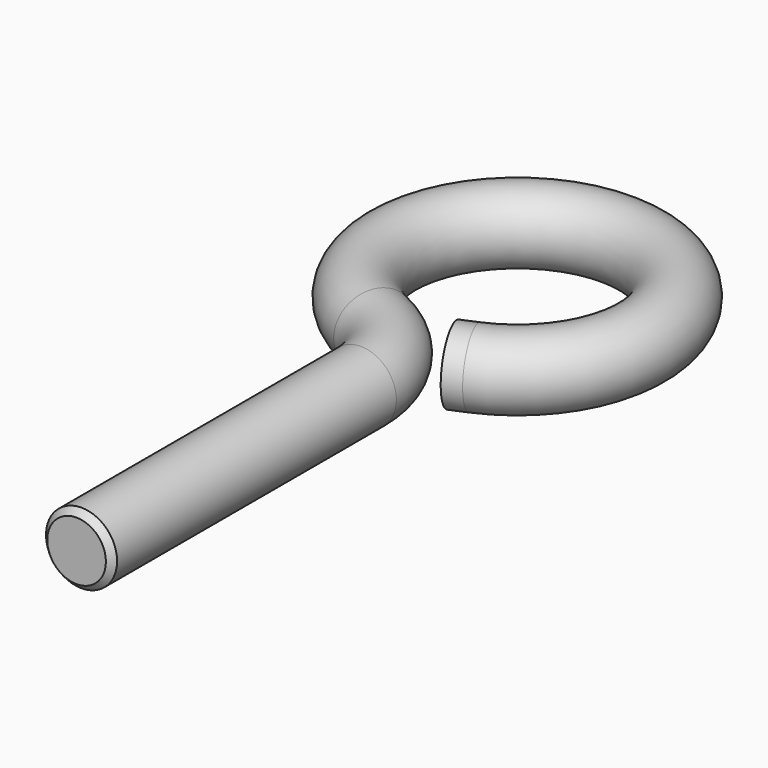
from build123d import *

# Parameters (mm, degrees)
F1_R    = 2
F3_SIZE = 0.35


with BuildPart() as f2:
    # F2: sweep along a path in F0
    with BuildLine(Plane.XY) as f2_path:
        Line((0, 0), (0, 20))
        ThreePointArc((0, 20), (-0.8040266345, 22.7610739599), (-2.9647058824, 24.6588235294))
        ThreePointArc((-2.9647058824, 24.6588235294), (0.1135563879, 37.9990788642), (2.7574350901, 24.5659847899))
        Line((2.7574350901, 24.5659847899), (1.83829006, 24.1720654913))
    # F1 (on Front) → F2 (sweep)
    with BuildSketch(Plane.XZ):
        Circle(F1_R)
    sweep(path=f2_path.line)

    # F3
    f3_edges = [f2.edges().sort_by_distance(p)[0] for p in [
        (-2, 0, 0),
    ]]
    chamfer(f3_edges, length=F3_SIZE)


solid = f2.part
